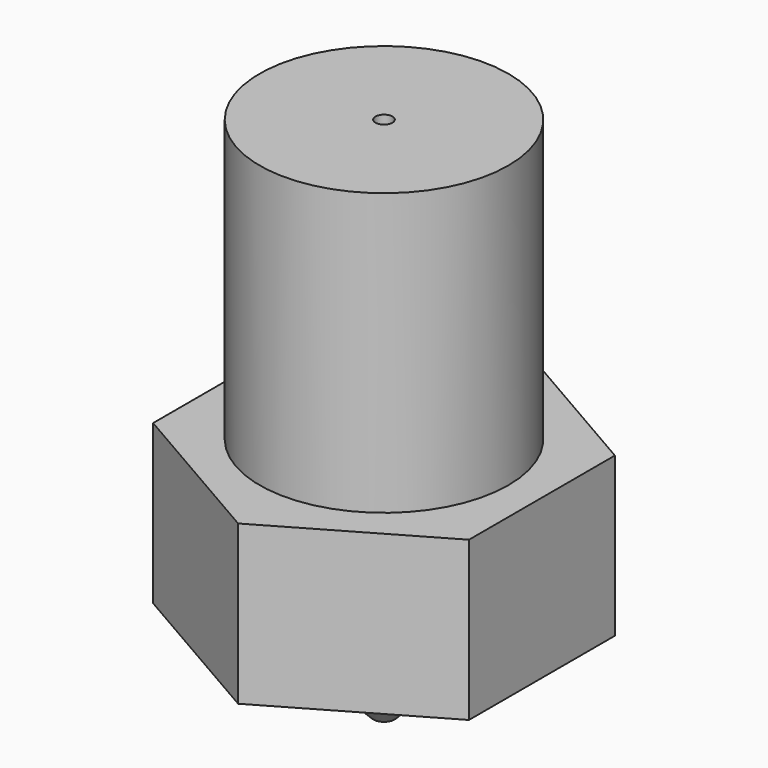
from build123d import *

# Parameters (mm, degrees)
F1_DEPTH = 3.75
F2_R     = 2.94
F3_DEPTH = 6.65
F4_R     = 2
F5_DEPTH = 2
F6_SIZE  = 1.75
F7_R     = 0.2
F8_DEPTH = 12.4


with BuildPart() as f1:
    # F0 (on Top) → F1 (new body)
    with BuildSketch(Plane.XY):
        Polygon((3.732228, -2.154803), (3.732228, 2.154803), (0, 4.309605), (-3.732228, 2.154803), (-3.732228, -2.154803), (0, -4.309605), align=None)
    extrude(amount=-F1_DEPTH)

    # F2 (on face) → F3 (join)
    with BuildSketch(Plane.XY):
        Circle(F2_R)
    extrude(amount=F3_DEPTH)

    # F4 (on face) → F5 (join)
    with BuildSketch(Plane(origin=(0, 0, -3.75), x_dir=(1, 0, 0), z_dir=(0, 0, -1))):
        Circle(F4_R)
    extrude(amount=F5_DEPTH)

    # F6
    f6_edges = [f1.edges().sort_by_distance(p)[0] for p in [
        (-2, 0, -5.75),
    ]]
    chamfer(f6_edges, length=F6_SIZE)

    # F7 (on face) → F8 (cut, through all)
    with BuildSketch(Plane.XY.offset(6.65)):
        Circle(F7_R)
    extrude(amount=-F8_DEPTH, mode=Mode.SUBTRACT)


solid = f1.part
